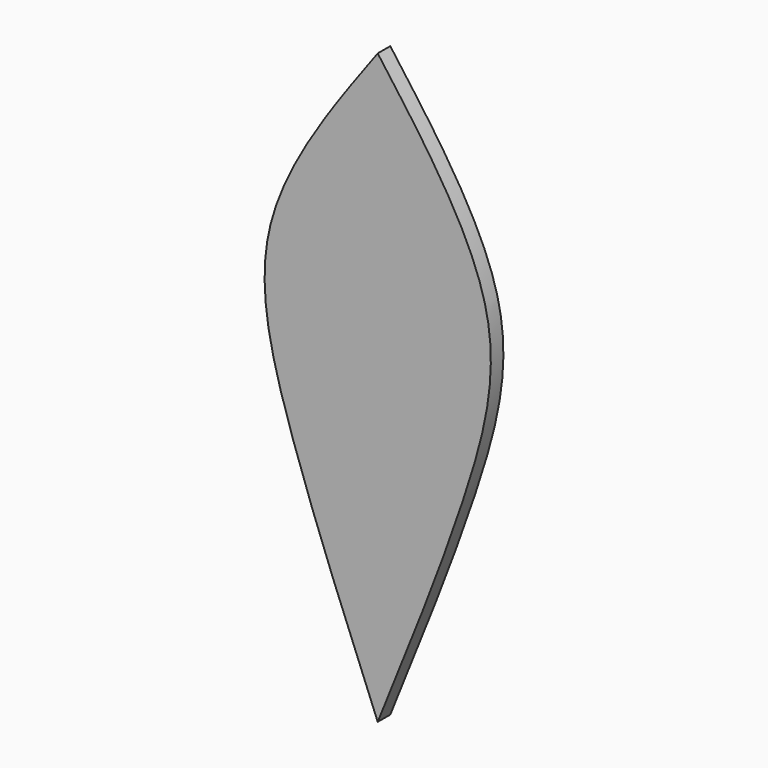
from build123d import *

# Parameters (mm, degrees)
F1_DEPTH = 2


with BuildPart() as f1:
    # F0 (on Front) → F1 (new body)
    with BuildSketch(Plane.XZ):
        with BuildLine():
            add(Edge.make_bspline(
                [(0, 0), (-4.1639944473, 10.2836955517), (-11.7278558604, 28.9639433167), (-17.1986272829, 51.5333719321), (-5.9859117793, 66.755688661), (0, 74.8821273446)],
                knots=[0, 0, 0, 0, 0.3634294674, 0.6601666163, 1, 1, 1, 1], degree=3))
            add(Edge.make_bspline(
                [(0, 0), (4.1639944473, 10.2836955517), (11.7278558604, 28.9639433167), (17.1986272829, 51.5333719321), (5.9859117793, 66.755688661), (0, 74.8821273446)],
                knots=[0, 0, 0, 0, 0.3634294674, 0.6601666163, 1, 1, 1, 1], degree=3))
        make_face()
    extrude(amount=F1_DEPTH)


solid = f1.part
